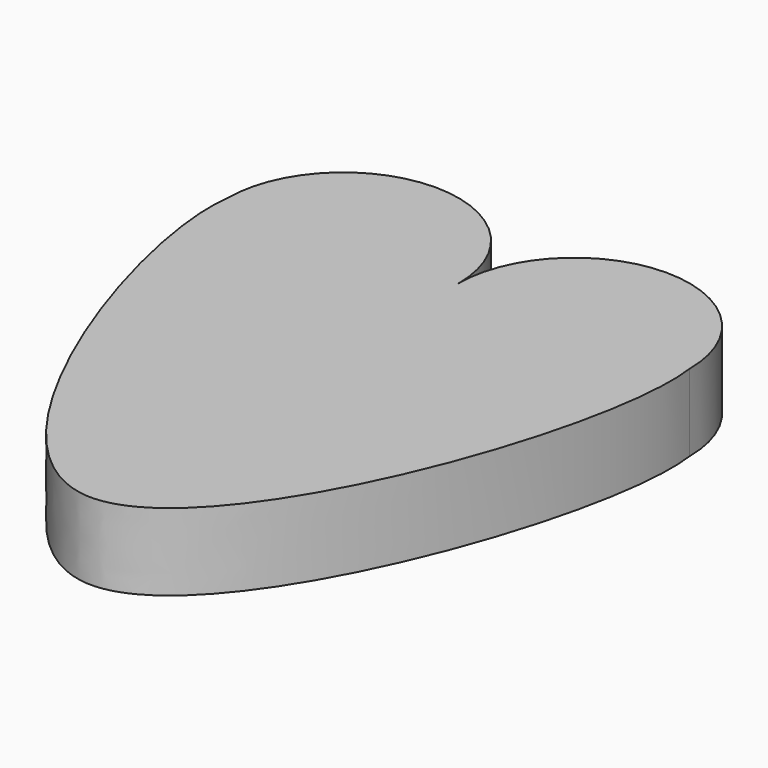
from build123d import *

# Parameters (mm, degrees)
F1_DEPTH = 25.4


with BuildPart() as f1:
    # F0 (on Top) → F1 (new body)
    with BuildSketch(Plane.XY):
        with BuildLine():
            ThreePointArc((1.690354, 10.705563), (-36.409646, 48.805563), (-74.509646, 10.705563))
            Line((-74.509646, 10.705563), (1.690354, 10.705563))
        make_face()
        with BuildLine():
            Line((1.690354, 10.705563), (-74.509646, 10.705563))
            add(Edge.make_bspline(
                [(-74.509646, 10.705563), (-79.358965, -24.147043), (-39.018227, -140.287925), (1.690354, -141.694437)],
                knots=[0, 0, 0, 0, 170.38838, 170.38838, 170.38838, 170.38838], degree=3))
            Line((1.690354, -141.694437), (1.690354, 10.705563))
        make_face()
        with BuildLine():
            ThreePointArc((77.890354, 10.705563), (39.790354, 48.805563), (1.690354, 10.705563))
            Line((1.690354, 10.705563), (77.890354, 10.705563))
        make_face()
        with BuildLine():
            Line((77.890354, 10.705563), (1.690354, 10.705563))
            Line((1.690354, 10.705563), (1.690354, -141.694437))
            add(Edge.make_bspline(
                [(1.690354, -141.694437), (42.398935, -143.100949), (83.475359, -29.773092), (77.890354, 10.705563)],
                knots=[170.38838, 170.38838, 170.38838, 170.38838, 340.77676, 340.77676, 340.77676, 340.77676], degree=3))
        make_face()
    extrude(amount=F1_DEPTH)


solid = f1.part
